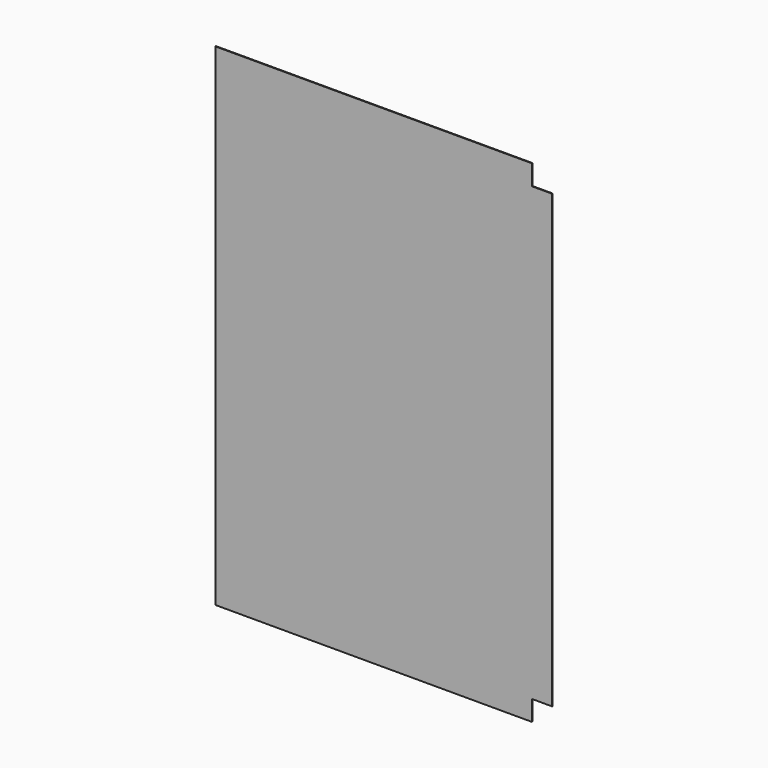
from build123d import *

# Parameters (mm, degrees)
F0_W     = 1410
F0_H     = 2010
F0_H_2   = 90
F0_W_2   = 90
F1_DEPTH = 3


with BuildPart() as f1:
    # F0 (on Front) → F1 (new body)
    with BuildSketch(Plane.XZ):
        with Locations((705, -1005)):
            Rectangle(F0_W, F0_H)
        with Locations((705, 45)):
            Rectangle(F0_W, F0_H_2)
        with Locations((1455, -1005)):
            Rectangle(F0_W_2, F0_H)
        with Locations((705, -2055)):
            Rectangle(F0_W, F0_H_2)
    extrude(amount=F1_DEPTH)


solid = f1.part
